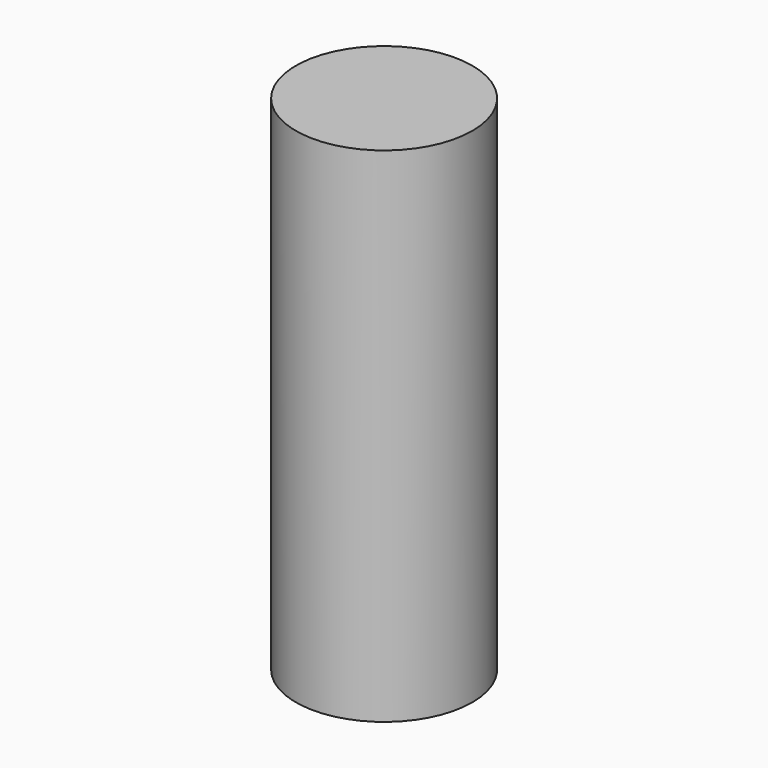
from build123d import *

# Parameters (mm, degrees)
F0_R     = 2.5
F1_DEPTH = 14.25
F3_D     = 3
F3_DEPTH = 3
F3_TIP   = 0.9012909285
F4_R     = 2.1505871319
F5_DEPTH = 5


with BuildPart() as f1:
    # F0 (on Top) → F1 (new body)
    with BuildSketch(Plane.XY):
        Circle(F0_R)
        with BuildLine():
            ThreePointArc((-1, 1.1180339887), (1.5, 0), (-1, -1.1180339887))
            Line((-1, -1.1180339887), (-1, 1.1180339887))
        make_face(mode=Mode.SUBTRACT)
    extrude(amount=F1_DEPTH)

    # F3
    with Locations(Plane(origin=(0, 0, 0), x_dir=(1, 0, 0), z_dir=(0, 0, -1))):
        with Locations((0, 0)):
            Hole(F3_D / 2, depth=F3_DEPTH)
            with Locations((0, 0, -(F3_DEPTH + F3_TIP / 2))):  # 118° drill point
                Cone(0, F3_D / 2, F3_TIP, mode=Mode.SUBTRACT)

    # F4 (on face) → F5 (join)
    with BuildSketch(Plane.XY.offset(14.25)):
        Circle(F4_R)
        with BuildLine():
            ThreePointArc((-1, 1.1180339887), (1.5, 0), (-1, -1.1180339887))
            Line((-1, -1.1180339887), (-1, 1.1180339887))
        make_face(mode=Mode.SUBTRACT)
        with BuildLine():
            Line((-1, 1.1180339887), (-1, -1.1180339887))
            ThreePointArc((-1, -1.1180339887), (1.5, 0), (-1, 1.1180339887))
        make_face()
    extrude(amount=-F5_DEPTH)


solid = f1.part
